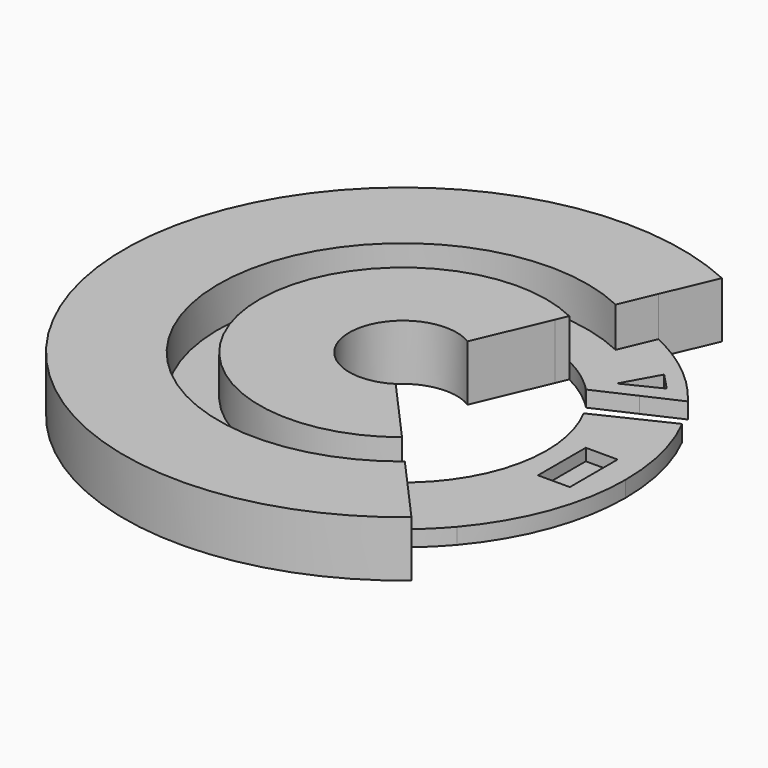
from build123d import *

# Parameters (mm, degrees)
F1_DEPTH = 4
F2_DEPTH = 10
F3_W     = 8
F3_H     = 15
F4_DEPTH = 3


with BuildPart() as f1:
    # F0 (on Top) → F1 (new body)
    with BuildSketch(Plane.XY):
        with BuildLine():
            Line((23.5981723771, 50.6307036507), (29.1379201291, 63.6473221004))
            ThreePointArc((29.1379201291, 63.6473221004), (-69.3679635531, -9.3853946369), (45.0035054679, -53.6160842994))
            Line((45.0035054679, -53.6160842994), (35.576841855, -43.0654178585))
            ThreePointArc((35.576841855, -43.0654178585), (-55.4090369327, -7.0838208542), (23.5981723771, 50.6307036507))
        make_face()
        with BuildLine():
            Line((19.8677907274, 41.8655113026), (23.5981723771, 50.6307036507))
            ThreePointArc((23.5981723771, 50.6307036507), (-55.4090369327, -7.0838208542), (35.576841855, -43.0654178585))
            Line((35.576841855, -43.0654178585), (29.2286049616, -35.9602391123))
            ThreePointArc((29.2286049616, -35.9602391123), (-46.0089760191, -5.5339200114), (19.8677907274, 41.8655113026))
        make_face()
        with BuildLine():
            Line((14.5657325798, 29.407386674), (15.8289323737, 32.3754983065))
            ThreePointArc((15.8289323737, 32.3754983065), (-35.8310083049, -3.8557534328), (22.3545915501, -28.266592071))
            Line((22.3545915501, -28.266592071), (20.2043653008, -25.8599802663))
            ThreePointArc((20.2043653008, -25.8599802663), (-32.6475173449, -3.3308509117), (14.5657325798, 29.407386674))
        make_face()
        with BuildLine():
            Line((6.9658582886, 11.5501360659), (14.5657325798, 29.407386674))
            ThreePointArc((14.5657325798, 29.407386674), (-32.6475173449, -3.3308509117), (20.2043653008, -25.8599802663))
            Line((20.2043653008, -25.8599802663), (7.257370403, -11.3692303905))
            ThreePointArc((7.257370403, -11.3692303905), (-13.4870085006, -0.1715416686), (6.9658582886, 11.5501360659))
        make_face()
        with BuildLine():
            Line((15.8289323737, 32.3754983065), (19.8677907274, 41.8655113026))
            ThreePointArc((19.8677907274, 41.8655113026), (-46.0089760191, -5.5339200114), (29.2286049616, -35.9602391123))
            Line((29.2286049616, -35.9602391123), (22.3545915501, -28.266592071))
            ThreePointArc((22.3545915501, -28.266592071), (-35.8310083049, -3.8557534328), (15.8289323737, 32.3754983065))
        make_face()
        with BuildLine():
            ThreePointArc((32.4763517935, 45.4491855361), (28.1567060881, 48.2446037809), (23.5981723771, 50.6307036507))
            Line((23.5981723771, 50.6307036507), (19.8677907274, 41.8655113026))
            ThreePointArc((19.8677907274, 41.8655113026), (24.3303762174, 39.4396112828), (28.5006543682, 36.5398802079))
            Line((28.5006543682, 36.5398802079), (32.4763517935, 45.4491855361))
        make_face()
        with BuildLine():
            ThreePointArc((28.5006543682, 36.5398802079), (24.3303762174, 39.4396112828), (19.8677907274, 41.8655113026))
            Line((19.8677907274, 41.8655113026), (15.8289323737, 32.3754983065))
            ThreePointArc((15.8289323737, 32.3754983065), (20.1791178088, 29.8585196408), (24.1368343884, 26.7608149426))
            Line((24.1368343884, 26.7608149426), (28.5006543682, 36.5398802079))
        make_face()
        with BuildLine():
            ThreePointArc((35.6941134, 29.5530102292), (32.2869345127, 33.2416005149), (28.5006543682, 36.5398802079))
            Line((28.5006543682, 36.5398802079), (24.1368343884, 26.7608149426))
            ThreePointArc((24.1368343884, 26.7608149426), (25.022522536, 25.9345591175), (25.8799433339, 25.0790056366))
            Line((25.8799433339, 25.0790056366), (35.6941134, 29.5530102292))
        make_face()
        with BuildLine():
            ThreePointArc((44.6112733376, 33.6180930885), (38.9951173125, 39.9965338185), (32.4763517935, 45.4491855361))
            Line((32.4763517935, 45.4491855361), (28.5006543682, 36.5398802079))
            ThreePointArc((28.5006543682, 36.5398802079), (32.2869345127, 33.2416005149), (35.6941134, 29.5530102292))
            Line((35.6941134, 29.5530102292), (44.6112733376, 33.6180930885))
        make_face()
        with BuildLine():
            Line((22.3545915501, -28.266592071), (29.2286049616, -35.9602391123))
            ThreePointArc((29.2286049616, -35.9602391123), (32.8206282453, -32.7147750505), (36.0544716862, -29.1122863487))
            Line((36.0544716862, -29.1122863487), (29.0097989093, -21.3812899032))
            ThreePointArc((29.0097989093, -21.3812899032), (25.9119084265, -25.0459775688), (22.3545915501, -28.266592071))
        make_face()
        with BuildLine():
            Line((29.2286049616, -35.9602391123), (35.576841855, -43.0654178585))
            ThreePointArc((35.576841855, -43.0654178585), (39.2024865114, -39.7933027409), (42.5284655631, -36.2170057923))
            Line((42.5284655631, -36.2170057923), (36.0544716862, -29.1122863487))
            ThreePointArc((36.0544716862, -29.1122863487), (32.8206282453, -32.7147750505), (29.2286049616, -35.9602391123))
        make_face()
        with BuildLine():
            Line((36.0544716862, -29.1122863487), (42.5284655631, -36.2170057923))
            ThreePointArc((42.5284655631, -36.2170057923), (52.4212879012, -19.2963848035), (55.860020513, 0))
            ThreePointArc((55.860020513, 0), (54.3029220862, 13.0971197067), (49.7184350628, 25.4640748234))
            Line((49.7184350628, 25.4640748234), (41.1278773135, 21.3529354587))
            ThreePointArc((41.1278773135, 21.3529354587), (45.0185527566, 10.9899978491), (46.3405885269, 0))
            ThreePointArc((46.3405885269, 0), (43.6934524957, -15.4380165186), (36.0544716862, -29.1122863487))
        make_face()
        with BuildLine():
            Line((29.0097989093, -21.3812899032), (36.0544716862, -29.1122863487))
            ThreePointArc((36.0544716862, -29.1122863487), (43.6934524957, -15.4380165186), (46.3405885269, 0))
            ThreePointArc((46.3405885269, 0), (45.0185527566, 10.9899978491), (41.1278773135, 21.3529354587))
            Line((41.1278773135, 21.3529354587), (31.8282165391, 16.9024442795))
            ThreePointArc((31.8282165391, 16.9024442795), (34.9696231307, 8.7093885424), (36.0378688421, 0))
            ThreePointArc((36.0378688421, 0), (34.2357950026, -11.253369772), (29.0097989093, -21.3812899032))
        make_face()
    extrude(amount=-F1_DEPTH)

    # F0 (on Top) → F2 (join)
    with BuildSketch(Plane.XY):
        with BuildLine():
            Line((23.5981723771, 50.6307036507), (29.1379201291, 63.6473221004))
            ThreePointArc((29.1379201291, 63.6473221004), (-69.3679635531, -9.3853946369), (45.0035054679, -53.6160842994))
            Line((45.0035054679, -53.6160842994), (35.576841855, -43.0654178585))
            ThreePointArc((35.576841855, -43.0654178585), (-55.4090369327, -7.0838208542), (23.5981723771, 50.6307036507))
        make_face()
        with BuildLine():
            Line((19.8677907274, 41.8655113026), (23.5981723771, 50.6307036507))
            ThreePointArc((23.5981723771, 50.6307036507), (-55.4090369327, -7.0838208542), (35.576841855, -43.0654178585))
            Line((35.576841855, -43.0654178585), (29.2286049616, -35.9602391123))
            ThreePointArc((29.2286049616, -35.9602391123), (-46.0089760191, -5.5339200114), (19.8677907274, 41.8655113026))
        make_face()
        with BuildLine():
            Line((6.9658582886, 11.5501360659), (14.5657325798, 29.407386674))
            ThreePointArc((14.5657325798, 29.407386674), (-32.6475173449, -3.3308509117), (20.2043653008, -25.8599802663))
            Line((20.2043653008, -25.8599802663), (7.257370403, -11.3692303905))
            ThreePointArc((7.257370403, -11.3692303905), (-13.4870085006, -0.1715416686), (6.9658582886, 11.5501360659))
        make_face()
        with BuildLine():
            Line((14.5657325798, 29.407386674), (15.8289323737, 32.3754983065))
            ThreePointArc((15.8289323737, 32.3754983065), (-35.8310083049, -3.8557534328), (22.3545915501, -28.266592071))
            Line((22.3545915501, -28.266592071), (20.2043653008, -25.8599802663))
            ThreePointArc((20.2043653008, -25.8599802663), (-32.6475173449, -3.3308509117), (14.5657325798, 29.407386674))
        make_face()
    extrude(amount=F2_DEPTH)

    # F3 (on face) → F4 (cut)
    with BuildSketch(Plane.XY):
        Polygon((37.9851715346, 35.276671204), (33.8525412993, 39.626541011), (29.0030042003, 30.8811427968), align=None)
        with Locations((45.2681102753, -1.745258756)):
            Rectangle(F3_W, F3_H)
    extrude(amount=-F4_DEPTH, mode=Mode.SUBTRACT)


solid = f1.part
